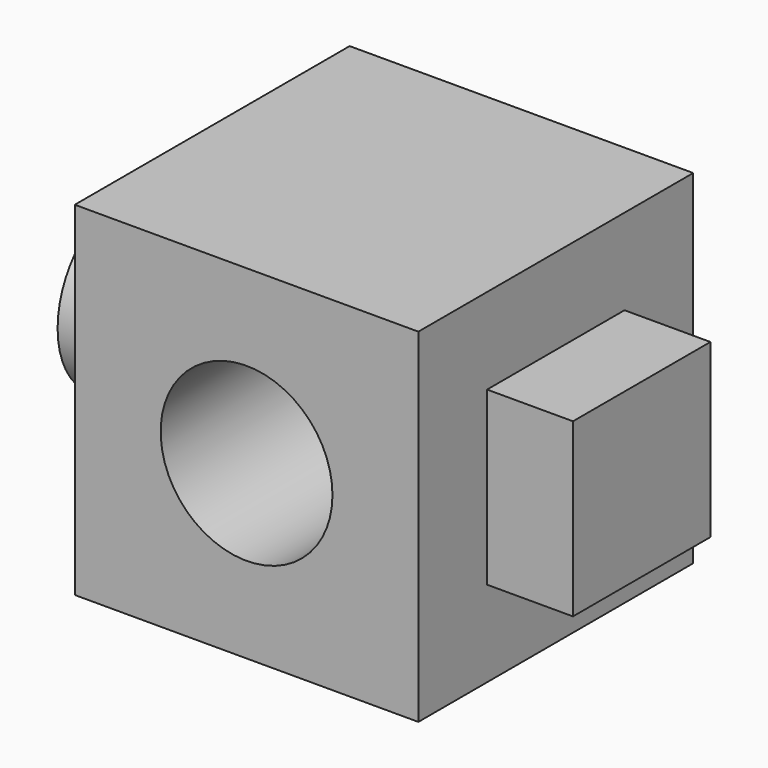
from build123d import *

# Parameters (mm, degrees)
F0_W     = 50.8
F0_H     = 50.8
F1_DEPTH = 50.8
F2_R     = 12.7
F3_DEPTH = 50.8
F4_W     = 25.4
F4_H     = 25.4
F5_DEPTH = 12.7
F6_R     = 12.7
F7_DEPTH = 12.7


with BuildPart() as f1:
    # F0 (on Front) → F1 (new body)
    with BuildSketch(Plane.XZ):
        with Locations((25.4, 25.4)):
            Rectangle(F0_W, F0_H)
    extrude(amount=F1_DEPTH)

    # F2 (on face) → F3 (cut)
    with BuildSketch(Plane.XZ.offset(50.8)):
        with Locations((25.4, 25.4)):
            Circle(F2_R)
    extrude(amount=-F3_DEPTH, mode=Mode.SUBTRACT)

    # F4 (on face) → F5 (join)
    with BuildSketch(Plane.YZ.offset(50.8)):
        with Locations((-25.4, 25.4)):
            Rectangle(F4_W, F4_H)
    extrude(amount=F5_DEPTH)

    # F6 (on face) → F7 (join)
    with BuildSketch(Plane(origin=(0, 0, 0), x_dir=(0, -1, 0), z_dir=(-1, 0, 0))):
        with Locations((25.4, 25.4)):
            Circle(F6_R)
    extrude(amount=F7_DEPTH)


solid = f1.part
